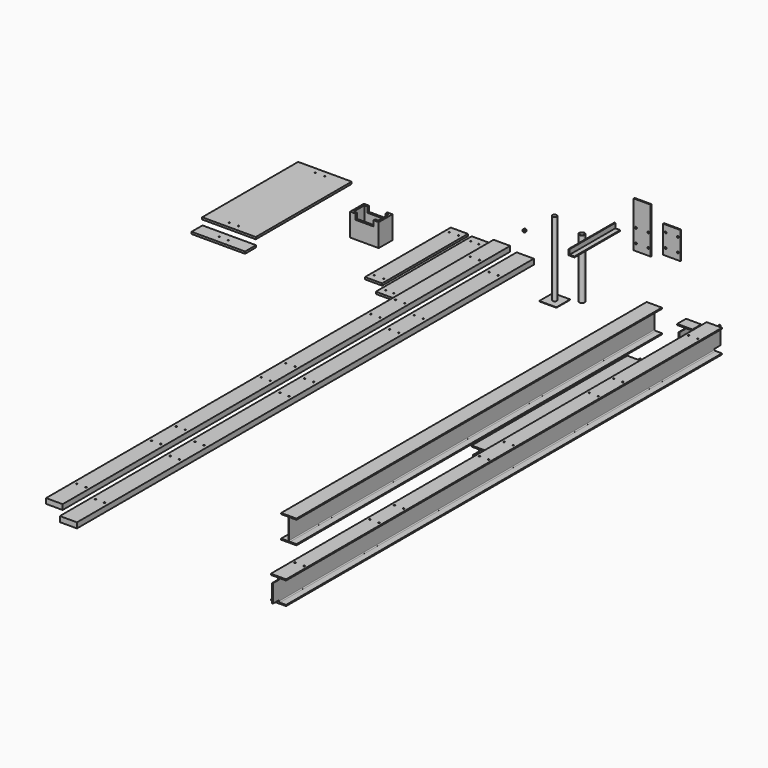
from build123d import *

# Parameters (mm, degrees)
F1_R      = 19
F2_DEPTH  = 650
F1_W      = 150
F1_H      = 150
F3_DEPTH  = 4
F4_R      = 24.15
F4_R_2    = 20.15
F5_DEPTH  = 520
F7_DEPTH  = 4000
F9_DEPTH  = 500
F11_DEPTH = 97
F12_W     = 6.3
F12_H     = 172.4
F13_DEPTH = 64
F14_R     = 8
F15_DEPTH = 10
F16_W     = 150
F16_H     = 240
F16_R     = 8
F17_DEPTH = 10
F18_R     = 8
F19_DEPTH = 14.8
F20_W     = 150
F20_H     = 47
F21_DEPTH = 5000
F23_DEPTH = 4898
F24_W     = 150
F24_H     = 18
F25_DEPTH = 1050
F26_W     = 150
F26_H     = 18
F27_DEPTH = 939
F28_W     = 250
F28_H     = 150
F28_W_2   = 214
F28_H_2   = 114
F29_DEPTH = 200
F30_W     = 80
F30_H     = 47.950398922
F31_DEPTH = 150
F33_D     = 11
F33_DEPTH = 18
F33_TIP   = 3.3047334047
F35_D     = 12
F35_DEPTH = 10
F35_TIP   = 3.6051637142
F37_D     = 11
F37_DEPTH = 18
F37_TIP   = 3.3047334047
F38_W     = 145
F38_H     = 45
F39_DEPTH = 4898
F41_D     = 12
F41_DEPTH = 10
F41_TIP   = 3.6051637142
F43_D     = 12
F43_DEPTH = 45
F43_TIP   = 3.6051637142
F45_DEPTH = 18
F47_D     = 11
F47_DEPTH = 18
F47_TIP   = 3.3047334047
F48_W     = 468.638
F48_H     = 120
F49_DEPTH = 18
F51_D     = 11
F51_DEPTH = 18
F51_TIP   = 3.3047334047
F53_DEPTH = 1830
F54_W     = 133.8
F54_H     = 63.75
F55_DEPTH = 25
F56_W     = 133.8
F56_H     = 63.75
F57_DEPTH = 25
F34_W     = 133.8
F34_H     = 64
F58_DEPTH = 25
F59_W     = 133.8
F59_H     = 64
F60_DEPTH = 25


with BuildPart() as f2:
    # F1 (on Top) → F2 (new body)
    with BuildSketch(Plane.XY):
        with Locations((-528.6480486393, -159.5178544521)):
            Circle(F1_R)
    extrude(amount=F2_DEPTH)


with BuildPart() as f3:
    # F1 (on Top) → F3 (new body)
    with BuildSketch(Plane.XY):
        with Locations((-528.6480486393, -159.5178544521)):
            Rectangle(F1_W, F1_H)
        with Locations((-528.6480486393, -159.5178544521)):
            Circle(F1_R, mode=Mode.SUBTRACT)
    extrude(amount=-F3_DEPTH)


with BuildPart() as f5:
    # F4 (on Top) → F5 (new body)
    with BuildSketch(Plane.XY):
        with Locations((-372.3214268684, -57.5817413628)):
            Circle(F4_R)
        with Locations((-372.3214268684, -57.5817413628)):
            Circle(F4_R_2, mode=Mode.SUBTRACT)
    extrude(amount=F5_DEPTH)


with BuildPart() as f7:
    # F6 (on face) → F7 (new body)
    with BuildSketch(Plane.XZ):
        Polygon((282.3633063246, 141.3063349088), (148.5633063246, 141.3063349088), (148.5633063246, 131.7063349088), (204.4380755731, 131.7063349088), (212.0380755731, 131.7063349088), (212.0380755731, 124.1063349088), (212.0380755731, -48.2936650912), (212.0380755731, -55.8936650912), (204.4380755731, -55.8936650912), (148.5633063246, -55.8936650912), (148.5633063246, -65.4936650912), (282.3633063246, -65.4936650912), (282.3633063246, -55.8936650912), (226.4885370761, -55.8936650912), (218.8885370761, -55.8936650912), (218.8885370761, -48.2936650912), (218.8885370761, 124.1063349088), (218.8885370761, 131.7063349088), (226.4885370761, 131.7063349088), (282.3633063246, 131.7063349088), align=None)
        with BuildLine():
            ThreePointArc((226.4885370761, -55.8936650912), (221.1145255391, -53.6676766282), (218.8885370761, -48.2936650912))
            Line((218.8885370761, -48.2936650912), (218.8885370761, -55.8936650912))
            Line((218.8885370761, -55.8936650912), (226.4885370761, -55.8936650912))
        make_face()
        with BuildLine():
            Line((212.0380755731, -55.8936650912), (212.0380755731, -48.2936650912))
            ThreePointArc((212.0380755731, -48.2936650912), (209.8120871101, -53.6676766282), (204.4380755731, -55.8936650912))
            Line((204.4380755731, -55.8936650912), (212.0380755731, -55.8936650912))
        make_face()
        with BuildLine():
            ThreePointArc((218.8885370761, 124.1063349088), (221.1145255391, 129.4803464458), (226.4885370761, 131.7063349088))
            Line((226.4885370761, 131.7063349088), (218.8885370761, 131.7063349088))
            Line((218.8885370761, 131.7063349088), (218.8885370761, 124.1063349088))
        make_face()
        with BuildLine():
            Line((212.0380755731, 131.7063349088), (204.4380755731, 131.7063349088))
            ThreePointArc((204.4380755731, 131.7063349088), (209.8120871101, 129.4803464458), (212.0380755731, 124.1063349088))
            Line((212.0380755731, 124.1063349088), (212.0380755731, 131.7063349088))
        make_face()
    extrude(amount=F7_DEPTH)


with BuildPart() as f9:
    # F8 (on Front) → F9 (new body)
    with BuildSketch(Plane.XZ):
        Polygon((-125.5687077506, 620.1272802353), (-125.5687077506, 662.1272802353), (-133.5687077506, 662.1272802353), (-133.5687077506, 612.1272802353), (-83.5687077506, 612.1272802353), (-83.5687077506, 620.1272802353), align=None)
    extrude(amount=F9_DEPTH)


with BuildPart() as f11:
    # F10 (on Front) → F11 (new body)
    with BuildSketch(Plane.XZ):
        with BuildLine():
            Line((627.2036391903, 124.2820544054), (493.4036391903, 124.2820544054))
            Line((493.4036391903, 124.2820544054), (493.4036391903, 114.6820544054))
            Line((493.4036391903, 114.6820544054), (549.5536391903, 114.6820544054))
            Line((549.5536391903, 114.6820544054), (557.1536391903, 114.6820544054))
            Line((557.1536391903, 114.6820544054), (557.1536391903, 107.0820544054))
            Line((557.1536391903, 107.0820544054), (557.1536391903, -65.3179455946))
            Line((557.1536391903, -65.3179455946), (557.1536391903, -72.9179455946))
            Line((557.1536391903, -72.9179455946), (549.5536391903, -72.9179455946))
            Line((549.5536391903, -72.9179455946), (493.4036391903, -72.9179455946))
            Line((493.4036391903, -72.9179455946), (493.4036391903, -82.5179455946))
            Line((493.4036391903, -82.5179455946), (627.2036391903, -82.5179455946))
            Line((627.2036391903, -82.5179455946), (627.2036391903, -72.9179455946))
            Line((627.2036391903, -72.9179455946), (571.6041006933, -72.9179455946))
            ThreePointArc((571.6041006933, -72.9179455946), (571.0722275774, -72.9365339817), (570.5403544614, -72.9179455946))
            Line((570.5403544614, -72.9179455946), (563.4536391903, -72.9179455946))
            Line((563.4536391903, -72.9179455946), (563.4536391903, -65.3179455946))
            Line((563.4536391903, -65.3179455946), (563.4536391903, 107.0820544054))
            Line((563.4536391903, 107.0820544054), (563.4536391903, 114.6820544054))
            Line((563.4536391903, 114.6820544054), (570.7880274543, 114.6820544054))
            ThreePointArc((570.7880274543, 114.6820544054), (571.058448698, 114.6868639132), (571.3288699418, 114.6820544054))
            Line((571.3288699418, 114.6820544054), (627.2036391903, 114.6820544054))
            Line((627.2036391903, 114.6820544054), (627.2036391903, 124.2820544054))
        make_face()
        with BuildLine():
            Line((557.1536391903, -72.9179455946), (557.1536391903, -65.3179455946))
            ThreePointArc((557.1536391903, -65.3179455946), (554.9276507273, -70.6919571316), (549.5536391903, -72.9179455946))
            Line((549.5536391903, -72.9179455946), (557.1536391903, -72.9179455946))
        make_face()
        with BuildLine():
            ThreePointArc((570.5403544614, -72.9179455946), (565.5001987119, -70.5136537594), (563.4536391903, -65.3179455946))
            Line((563.4536391903, -65.3179455946), (563.4536391903, -72.9179455946))
            Line((563.4536391903, -72.9179455946), (570.5403544614, -72.9179455946))
        make_face()
        with BuildLine():
            ThreePointArc((563.4536391903, 107.0820544054), (565.586263134, 112.3629930343), (570.7880274543, 114.6820544054))
            Line((570.7880274543, 114.6820544054), (563.4536391903, 114.6820544054))
            Line((563.4536391903, 114.6820544054), (563.4536391903, 107.0820544054))
        make_face()
        with BuildLine():
            Line((557.1536391903, 114.6820544054), (549.5536391903, 114.6820544054))
            ThreePointArc((549.5536391903, 114.6820544054), (554.9276507273, 112.4560659424), (557.1536391903, 107.0820544054))
            Line((557.1536391903, 107.0820544054), (557.1536391903, 114.6820544054))
        make_face()
    extrude(amount=F11_DEPTH)

    # F12 (on face) → F13 (join)
    with BuildSketch(Plane.XZ.offset(97)):
        with Locations((560.3036391903, 20.8820544054)):
            Rectangle(F12_W, F12_H)
    extrude(amount=F13_DEPTH)


with BuildPart() as f15:
    # F14 (on Front) → F15 (new body)
    with BuildSketch(Plane.XZ):
        Polygon((192.0161962509, 909.1290996496), (42.0161962509, 909.1290996496), (42.0161962509, 509.1290996496), (63.0161962509, 509.1290996496), (192.0161962509, 509.1290996496), align=None)
        with BuildLine():
            ThreePointArc((71.0161962509, 569.1290996496), (68.6730505004, 563.4722454001), (63.0161962509, 561.1290996496))
            ThreePointArc((63.0161962509, 561.1290996496), (57.3593420014, 574.7859538991), (71.0161962509, 569.1290996496))
        make_face(mode=Mode.SUBTRACT)
        with Locations((63.0161962509, 689.1290995572)):
            Circle(F14_R, mode=Mode.SUBTRACT)
        with Locations((171.0161962509, 569.1290996496)):
            Circle(F14_R, mode=Mode.SUBTRACT)
        with Locations((171.0161962509, 689.1290995572)):
            Circle(F14_R, mode=Mode.SUBTRACT)
    extrude(amount=F15_DEPTH)


with BuildPart() as f17:
    # F16 (on Front) → F17 (new body)
    with BuildSketch(Plane.XZ):
        with Locations((375.9643137455, 678.4010894266)):
            Rectangle(F16_W, F16_H)
        with Locations((321.9643137455, 618.4010894266)):
            Circle(F16_R, mode=Mode.SUBTRACT)
        with Locations((429.9643137455, 618.4010894266)):
            Circle(F16_R, mode=Mode.SUBTRACT)
        with Locations((321.9643137455, 738.4010893342)):
            Circle(F16_R, mode=Mode.SUBTRACT)
        with Locations((429.9643137455, 738.4010893342)):
            Circle(F16_R, mode=Mode.SUBTRACT)
    extrude(amount=F17_DEPTH)


with BuildPart() as f19:
    # F18 (on Front) → F19 (new body)
    with BuildSketch(Plane.XZ):
        Polygon((-909.2039054157, 336.7756153506), (-901.3750544625, 347.6155550531), (-906.8482921437, 359.8155087122), (-920.1503807781, 361.1755226689), (-927.9792317313, 350.3355829665), (-922.5059940501, 338.1356293074), align=None)
        with Locations((-914.6771430969, 348.9755690098)):
            Circle(F18_R, mode=Mode.SUBTRACT)
    extrude(amount=F19_DEPTH)


with BuildPart() as f21:
    # F20 (on Front) → F21 (new body)
    with BuildSketch(Plane.XZ):
        with Locations((-914.4649505615, 130.4321858266)):
            Rectangle(F20_W, F20_H)
    extrude(amount=F21_DEPTH)

    # F41
    with Locations(Plane.XY.offset(153.9321858266)):
        with Locations((-954.4649505615, -346), (-874.4649505615, -346), (-954.4649505615, -1165), (-874.4649505615, -1165), (-954.4649505615, -1435), (-874.4649505615, -1435), (-954.4649505615, -2365), (-874.4649505615, -2365), (-954.4649505615, -2635), (-874.4649505615, -2635), (-954.4649505615, -3565), (-874.4649505615, -3565), (-954.4649505615, -3835), (-874.4649505615, -3835), (-954.4649505615, -4654), (-874.4649505615, -4654)):
            Hole(F41_D / 2, depth=F41_DEPTH)
            with Locations((0, 0, -(F41_DEPTH + F41_TIP / 2))):  # 118° drill point
                Cone(0, F41_D / 2, F41_TIP, mode=Mode.SUBTRACT)


with BuildPart() as f23:
    # F22 (on Front) → F23 (new body)
    with BuildSketch(Plane.XZ):
        Polygon((858.8663894344, 199.6137888988), (725.0663894344, 199.6137888988), (725.0663894344, 190.0137888988), (780.9411586829, 190.0137888988), (788.5411586829, 190.0137888988), (788.5411586829, 182.4137888988), (788.5411586829, 10.0137888988), (788.5411586829, 2.4137888988), (780.9411586829, 2.4137888988), (725.0663894344, 2.4137888988), (725.0663894344, -7.1862111012), (858.8663894344, -7.1862111012), (858.8663894344, 2.4137888988), (802.9916201859, 2.4137888988), (795.3916201859, 2.4137888988), (795.3916201859, 10.0137888988), (795.3916201859, 182.4137888988), (795.3916201859, 190.0137888988), (802.9916201859, 190.0137888988), (858.8663894344, 190.0137888988), align=None)
        with BuildLine():
            Line((788.5411586829, 190.0137888988), (780.9411586829, 190.0137888988))
            ThreePointArc((780.9411586829, 190.0137888988), (786.31517022, 187.7878004358), (788.5411586829, 182.4137888988))
            Line((788.5411586829, 182.4137888988), (788.5411586829, 190.0137888988))
        make_face()
        with BuildLine():
            ThreePointArc((802.9916201859, 2.4137888988), (797.6176086489, 4.6397773618), (795.3916201859, 10.0137888988))
            Line((795.3916201859, 10.0137888988), (795.3916201859, 2.4137888988))
            Line((795.3916201859, 2.4137888988), (802.9916201859, 2.4137888988))
        make_face()
        with BuildLine():
            ThreePointArc((795.3916201859, 182.4137888988), (797.6176086489, 187.7878004358), (802.9916201859, 190.0137888988))
            Line((802.9916201859, 190.0137888988), (795.3916201859, 190.0137888988))
            Line((795.3916201859, 190.0137888988), (795.3916201859, 182.4137888988))
        make_face()
        with BuildLine():
            Line((788.5411586829, 2.4137888988), (788.5411586829, 10.0137888988))
            ThreePointArc((788.5411586829, 10.0137888988), (786.31517022, 4.6397773618), (780.9411586829, 2.4137888988))
            Line((780.9411586829, 2.4137888988), (788.5411586829, 2.4137888988))
        make_face()
    extrude(amount=F23_DEPTH)

    # F35
    with Locations(Plane.XY.offset(199.6137888988)):
        with Locations((751.9663894344, -295), (831.9663894344, -295), (751.9663894344, -1114), (831.9663894344, -1114), (751.9663894344, -1384), (831.9663894344, -1384), (751.9663894344, -2314), (831.9663894344, -2314), (751.9663894344, -2584), (831.9663894344, -2584), (751.9663894344, -3514), (831.9663894344, -3514), (751.9663894344, -3784), (831.9663894344, -3784), (751.9663894344, -4603), (831.9663894344, -4603)):
            Hole(F35_D / 2, depth=F35_DEPTH)
            with Locations((0, 0, -(F35_DEPTH + F35_TIP / 2))):  # 118° drill point
                Cone(0, F35_D / 2, F35_TIP, mode=Mode.SUBTRACT)

    # F34 (on face) → F58 (cut)
    with BuildSketch(Plane.XY.offset(199.6137888988)):
        with Locations((791.9663894344, -32)):
            Rectangle(F34_W, F34_H)
        with Locations((791.9663894344, -4866)):
            Rectangle(F34_W, F34_H)
    extrude(amount=-F58_DEPTH, mode=Mode.SUBTRACT)

    # F59 (on face) → F60 (cut)
    with BuildSketch(Plane(origin=(0, 0, -7.1862111012), x_dir=(1, 0, 0), z_dir=(0, 0, -1))):
        with Locations((791.9663894344, 4866)):
            Rectangle(F59_W, F59_H)
        with Locations((791.9663894344, 32)):
            Rectangle(F59_W, F59_H)
    extrude(amount=-F60_DEPTH, mode=Mode.SUBTRACT)


with BuildPart() as f25:
    # F24 (on Front) → F25 (new body)
    with BuildSketch(Plane.XZ):
        with Locations((-1308.0417513847, 140.7092107868)):
            Rectangle(F24_W, F24_H)
    extrude(amount=F25_DEPTH)

    # F33
    with Locations(Plane.XY.offset(149.7092107868)):
        with Locations((-1343.0417513847, -60), (-1273.0417513847, -60), (-1343.0417513847, -990), (-1273.0417513847, -990)):
            Hole(F33_D / 2, depth=F33_DEPTH)
            with Locations((0, 0, -(F33_DEPTH + F33_TIP / 2))):  # 118° drill point
                Cone(0, F33_D / 2, F33_TIP, mode=Mode.SUBTRACT)


with BuildPart() as f27:
    # F26 (on Front) → F27 (new body)
    with BuildSketch(Plane.XZ):
        with Locations((-1491.3841886605, 148.4898999333)):
            Rectangle(F26_W, F26_H)
    extrude(amount=F27_DEPTH)

    # F37
    with Locations(Plane.XY.offset(157.4898999333)):
        with Locations((-1531.3841886605, -60), (-1451.3841886605, -60), (-1531.3841886605, -879), (-1451.3841886605, -879)):
            Hole(F37_D / 2, depth=F37_DEPTH)
            with Locations((0, 0, -(F37_DEPTH + F37_TIP / 2))):  # 118° drill point
                Cone(0, F37_D / 2, F37_TIP, mode=Mode.SUBTRACT)


with BuildPart() as f29:
    # F28 (on Top) → F29 (new body)
    with BuildSketch(Plane.XY):
        with Locations((-2074.5240449905, -234.7443470904)):
            Rectangle(F28_W, F28_H)
        with Locations((-2074.5240449905, -234.7443470904)):
            Rectangle(F28_W_2, F28_H_2, mode=Mode.SUBTRACT)
    extrude(amount=F29_DEPTH)

    # F30 (on face) → F31 (cut)
    with BuildSketch(Plane(origin=(0, -159.7443470904, 0), x_dir=(-1, 0, 0), z_dir=(0, 1, 0))):
        with Locations((2114.5240449905, 176.024800539)):
            Rectangle(F30_W, F30_H)
        with Locations((2034.5240449905, 176.024800539)):
            Rectangle(F30_W, F30_H)
    extrude(amount=-F31_DEPTH, mode=Mode.SUBTRACT)


with BuildPart() as f39:
    # F38 (on Front) → F39 (new body)
    with BuildSketch(Plane.XZ):
        with Locations((-1118.8729405403, 162.7716813148)):
            Rectangle(F38_W, F38_H)
    extrude(amount=F39_DEPTH)

    # F43
    with Locations(Plane.XY.offset(185.2716813148)):
        with Locations((-1158.8729405403, -295), (-1078.8729405403, -295), (-1158.8729405403, -1114), (-1078.8729405403, -1114), (-1158.8729405403, -1384), (-1078.8729405403, -1384), (-1158.8729405403, -2314), (-1078.8729405403, -2314), (-1158.8729405403, -2584), (-1078.8729405403, -2584), (-1158.8729405403, -3514), (-1078.8729405403, -3514), (-1158.8729405403, -3784), (-1078.8729405403, -3784), (-1158.8729405403, -4603), (-1078.8729405403, -4603)):
            Hole(F43_D / 2, depth=F43_DEPTH)
            with Locations((0, 0, -(F43_DEPTH + F43_TIP / 2))):  # 118° drill point
                Cone(0, F43_D / 2, F43_TIP, mode=Mode.SUBTRACT)


with BuildPart() as f45:
    # F44 (on Top) → F45 (new body)
    with BuildSketch(Plane.XY):
        Polygon((-2921.7253923416, 316.7022662508), (-3156.1443923416, 316.7022662508), (-3156.1443923416, -733.2977337492), (-2921.7253923416, -733.2977337492), (-2687.3063923416, -733.2977337492), (-2687.3063923416, 316.7022662508), align=None)
    extrude(amount=F45_DEPTH)

    # F47
    with Locations(Plane.XY.offset(18)):
        with Locations((-2881.7253923416, -679.5727610588), (-2961.7253923416, -679.5727610588), (-2881.7253923416, 262.9772935603), (-2961.7253923416, 262.9772935603)):
            Hole(F47_D / 2, depth=F47_DEPTH)
            with Locations((0, 0, -(F47_DEPTH + F47_TIP / 2))):  # 118° drill point
                Cone(0, F47_D / 2, F47_TIP, mode=Mode.SUBTRACT)


with BuildPart() as f49:
    # F48 (on Top) → F49 (new body)
    with BuildSketch(Plane.XY):
        with Locations((-2844.8308519327, -886.5430951118)):
            Rectangle(F48_W, F48_H)
    extrude(amount=F49_DEPTH)

    # F51
    with Locations(Plane.XY.offset(18)):
        with Locations((-2884.8308519327, -886.5430951118), (-2804.8308519327, -886.5430951118)):
            Hole(F51_D / 2, depth=F51_DEPTH)
            with Locations((0, 0, -(F51_DEPTH + F51_TIP / 2))):  # 118° drill point
                Cone(0, F51_D / 2, F51_TIP, mode=Mode.SUBTRACT)


with BuildPart() as f53:
    # F52 (on Front) → F53 (new body)
    with BuildSketch(Plane.XZ):
        with BuildLine():
            Line((163.6679271742, -285.2621355091), (29.8679271742, -285.2621355091))
            Line((29.8679271742, -285.2621355091), (29.8679271742, -294.8621355091))
            Line((29.8679271742, -294.8621355091), (86.0179271742, -294.8621355091))
            Line((86.0179271742, -294.8621355091), (93.6179271742, -294.8621355091))
            Line((93.6179271742, -294.8621355091), (93.6179271742, -302.4621355091))
            Line((93.6179271742, -302.4621355091), (93.6179271742, -474.8621355091))
            Line((93.6179271742, -474.8621355091), (93.6179271742, -482.4621355091))
            Line((93.6179271742, -482.4621355091), (86.0179271742, -482.4621355091))
            Line((86.0179271742, -482.4621355091), (29.8679271742, -482.4621355091))
            Line((29.8679271742, -482.4621355091), (29.8679271742, -492.0621355091))
            Line((29.8679271742, -492.0621355091), (163.6679271742, -492.0621355091))
            Line((163.6679271742, -492.0621355091), (163.6679271742, -482.4621355091))
            Line((163.6679271742, -482.4621355091), (108.0683886772, -482.4621355091))
            ThreePointArc((108.0683886772, -482.4621355091), (107.5365155613, -482.4807238962), (107.0046424454, -482.4621355091))
            Line((107.0046424454, -482.4621355091), (99.9179271742, -482.4621355091))
            Line((99.9179271742, -482.4621355091), (99.9179271742, -474.8621355091))
            Line((99.9179271742, -474.8621355091), (99.9179271742, -302.4621355091))
            Line((99.9179271742, -302.4621355091), (99.9179271742, -294.8621355091))
            Line((99.9179271742, -294.8621355091), (107.2523154382, -294.8621355091))
            ThreePointArc((107.2523154382, -294.8621355091), (107.522736682, -294.8573260014), (107.7931579257, -294.8621355091))
            Line((107.7931579257, -294.8621355091), (163.6679271742, -294.8621355091))
            Line((163.6679271742, -294.8621355091), (163.6679271742, -285.2621355091))
        make_face()
        with BuildLine():
            Line((93.6179271742, -294.8621355091), (86.0179271742, -294.8621355091))
            ThreePointArc((86.0179271742, -294.8621355091), (91.3919387113, -297.0881239721), (93.6179271742, -302.4621355091))
            Line((93.6179271742, -302.4621355091), (93.6179271742, -294.8621355091))
        make_face()
        with BuildLine():
            Line((93.6179271742, -482.4621355091), (93.6179271742, -474.8621355091))
            ThreePointArc((93.6179271742, -474.8621355091), (91.3919387113, -480.2361470462), (86.0179271742, -482.4621355091))
            Line((86.0179271742, -482.4621355091), (93.6179271742, -482.4621355091))
        make_face()
        with BuildLine():
            ThreePointArc((99.9179271742, -302.4621355091), (102.0505511179, -297.1811968803), (107.2523154382, -294.8621355091))
            Line((107.2523154382, -294.8621355091), (99.9179271742, -294.8621355091))
            Line((99.9179271742, -294.8621355091), (99.9179271742, -302.4621355091))
        make_face()
        with BuildLine():
            Line((108.0683886772, -482.4621355091), (107.0046424454, -482.4621355091))
            ThreePointArc((107.0046424454, -482.4621355091), (107.5365155613, -482.4807238962), (108.0683886772, -482.4621355091))
        make_face()
        with BuildLine():
            ThreePointArc((107.0046424454, -482.4621355091), (101.9644866958, -480.0578436739), (99.9179271742, -474.8621355091))
            Line((99.9179271742, -474.8621355091), (99.9179271742, -482.4621355091))
            Line((99.9179271742, -482.4621355091), (107.0046424454, -482.4621355091))
        make_face()
        with BuildLine():
            Line((107.2523154382, -294.8621355091), (107.7931579257, -294.8621355091))
            ThreePointArc((107.7931579257, -294.8621355091), (107.522736682, -294.8573260014), (107.2523154382, -294.8621355091))
        make_face()
    extrude(amount=F53_DEPTH)

    # F54 (on face) → F55 (cut)
    with BuildSketch(Plane.XY.offset(-285.2621355091)):
        with Locations((96.7679271742, -31.875)):
            Rectangle(F54_W, F54_H)
        with Locations((96.7679271742, -1798.125)):
            Rectangle(F54_W, F54_H)
    extrude(amount=-F55_DEPTH, mode=Mode.SUBTRACT)

    # F56 (on face) → F57 (cut)
    with BuildSketch(Plane(origin=(0, 0, -492.0621355091), x_dir=(1, 0, 0), z_dir=(0, 0, -1))):
        with Locations((96.7679271742, 31.875)):
            Rectangle(F56_W, F56_H)
        with Locations((96.7679271742, 1798.125)):
            Rectangle(F56_W, F56_H)
    extrude(amount=-F57_DEPTH, mode=Mode.SUBTRACT)


solid = Compound([f2.part, f3.part, f5.part, f7.part, f9.part, f11.part, f15.part, f17.part, f19.part, f21.part, f23.part, f25.part, f27.part, f29.part, f39.part, f45.part, f49.part, f53.part])
